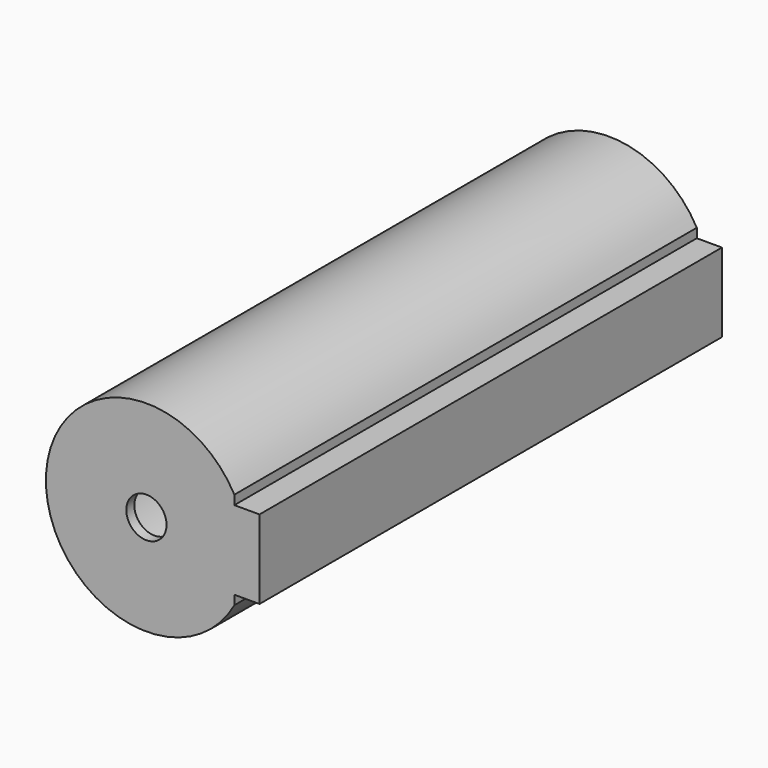
from build123d import *

# Parameters (mm, degrees)
F1_DEPTH = 57.5
F2_T     = -2
F3_R     = 4
F4_DEPTH = 25


with BuildPart() as f1:
    # F0 (on Front) → F1 (new body, symmetric)
    with BuildSketch(Plane.XZ):
        with BuildLine():
            Line((17.5, 7.8446282016), (17.5, 9.6824583655))
            ThreePointArc((17.5, 9.6824583655), (-20, 0), (17.5, -9.6824583655))
            Line((17.5, -9.6824583655), (17.5, -7.8446282016))
            Line((17.5, -7.8446282016), (22.5, -7.8446282016))
            Line((22.5, -7.8446282016), (22.5, 7.8446282016))
            Line((22.5, 7.8446282016), (17.5, 7.8446282016))
        make_face()
    extrude(amount=F1_DEPTH, both=True)

    # F2
    f2_openings = [f1.faces().sort_by_distance(p)[0] for p in [
        (0.740007, 57.5, 0),
    ]]
    offset(amount=F2_T, openings=f2_openings, kind=Kind.INTERSECTION)

    # F3 (on face) → F4 (cut)
    with BuildSketch(Plane.XZ.offset(57.5)):
        Circle(F3_R)
    extrude(amount=-F4_DEPTH, mode=Mode.SUBTRACT)


solid = f1.part
